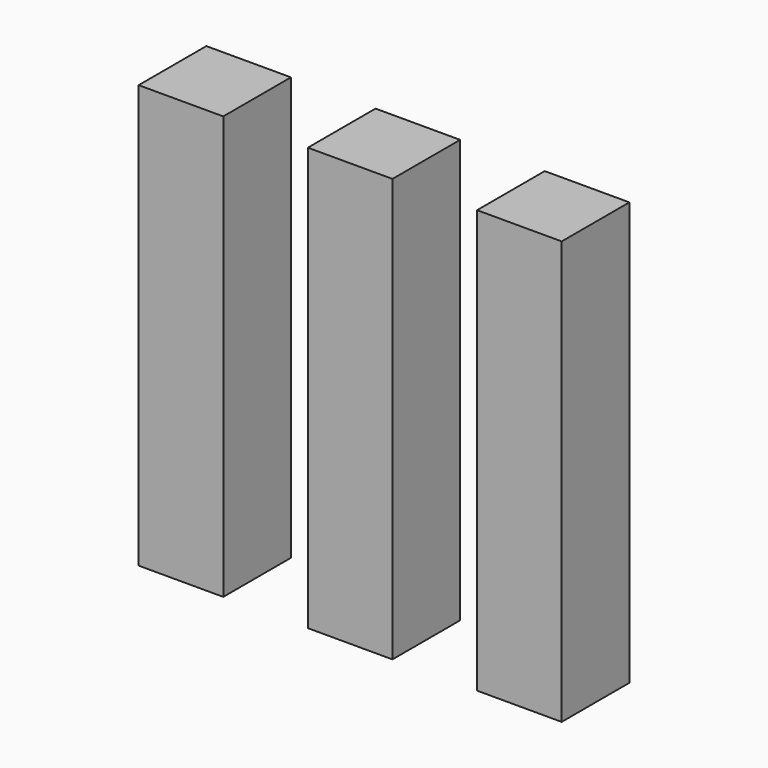
from build123d import *

# Parameters (mm, degrees)
F0_W     = 25.4
F0_H     = 25.4
F1_DEPTH = 127


with BuildPart() as f1:
    # F0 (on Top) → F1 (new body)
    with BuildSketch(Plane.XY):
        Rectangle(F0_W, F0_H)
        with Locations((-50.8, 0)):
            Rectangle(F0_W, F0_H)
        with Locations((50.8, 0)):
            Rectangle(F0_W, F0_H)
    extrude(amount=F1_DEPTH)


solid = f1.part
